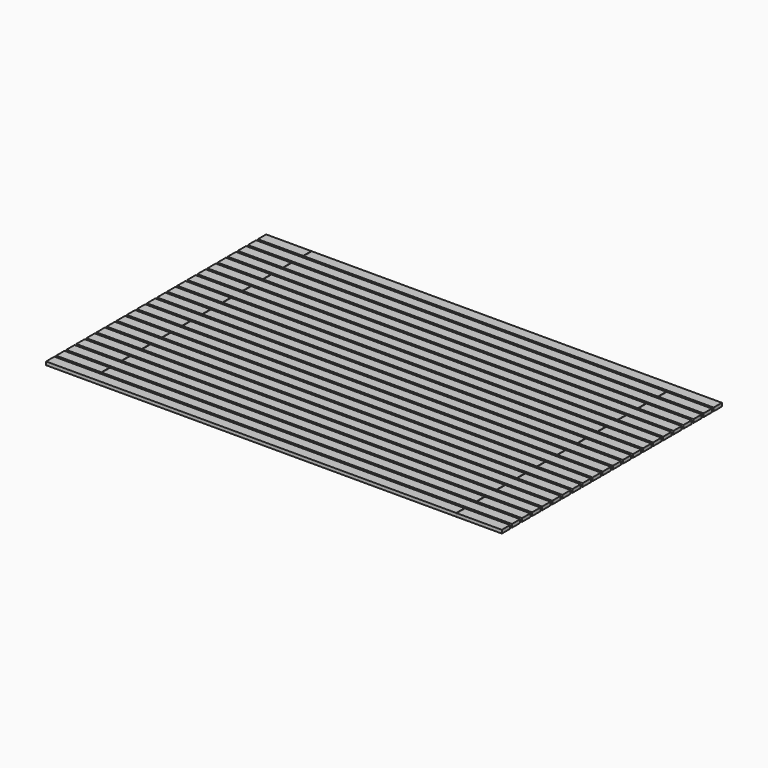
from build123d import *

# Parameters (mm, degrees)
F0_W     = 2700
F0_H     = 68
F0_W_2   = 2.5
F0_W_3   = 297.5
F1_DEPTH = 22
F2_DEPTH = 25


with BuildPart() as f1:
    # F0 (on Top) → F1 (new body)
    with BuildSketch(Plane.XY):
        with Locations((1350, 34)):
            Rectangle(F0_W, F0_H)
        with Locations((2701.25, 34)):
            Rectangle(F0_W_2, F0_H)
        with Locations((2851.25, 34)):
            Rectangle(F0_W_3, F0_H)
        with Locations((148.75, 117)):
            Rectangle(F0_W_3, F0_H)
        with Locations((298.75, 117)):
            Rectangle(F0_W_2, F0_H)
        with Locations((1650, 117)):
            Rectangle(F0_W, F0_H)
        with Locations((148.75, 283)):
            Rectangle(F0_W_3, F0_H)
        with Locations((298.75, 283)):
            Rectangle(F0_W_2, F0_H)
        with Locations((1650, 283)):
            Rectangle(F0_W, F0_H)
        with Locations((1350, 200)):
            Rectangle(F0_W, F0_H)
        with Locations((2701.25, 200)):
            Rectangle(F0_W_2, F0_H)
        with Locations((2851.25, 200)):
            Rectangle(F0_W_3, F0_H)
        with Locations((148.75, 449)):
            Rectangle(F0_W_3, F0_H)
        with Locations((298.75, 449)):
            Rectangle(F0_W_2, F0_H)
        with Locations((1650, 449)):
            Rectangle(F0_W, F0_H)
        with Locations((1350, 366)):
            Rectangle(F0_W, F0_H)
        with Locations((2701.25, 366)):
            Rectangle(F0_W_2, F0_H)
        with Locations((2851.25, 366)):
            Rectangle(F0_W_3, F0_H)
        with Locations((148.75, 615)):
            Rectangle(F0_W_3, F0_H)
        with Locations((298.75, 615)):
            Rectangle(F0_W_2, F0_H)
        with Locations((1650, 615)):
            Rectangle(F0_W, F0_H)
        with Locations((1350, 532)):
            Rectangle(F0_W, F0_H)
        with Locations((2701.25, 532)):
            Rectangle(F0_W_2, F0_H)
        with Locations((2851.25, 532)):
            Rectangle(F0_W_3, F0_H)
        with Locations((148.75, 781)):
            Rectangle(F0_W_3, F0_H)
        with Locations((298.75, 781)):
            Rectangle(F0_W_2, F0_H)
        with Locations((1650, 781)):
            Rectangle(F0_W, F0_H)
        with Locations((1350, 698)):
            Rectangle(F0_W, F0_H)
        with Locations((2701.25, 698)):
            Rectangle(F0_W_2, F0_H)
        with Locations((2851.25, 698)):
            Rectangle(F0_W_3, F0_H)
        with Locations((148.75, 947)):
            Rectangle(F0_W_3, F0_H)
        with Locations((298.75, 947)):
            Rectangle(F0_W_2, F0_H)
        with Locations((1650, 947)):
            Rectangle(F0_W, F0_H)
        with Locations((1350, 864)):
            Rectangle(F0_W, F0_H)
        with Locations((2701.25, 864)):
            Rectangle(F0_W_2, F0_H)
        with Locations((2851.25, 864)):
            Rectangle(F0_W_3, F0_H)
        with Locations((148.75, 1113)):
            Rectangle(F0_W_3, F0_H)
        with Locations((298.75, 1113)):
            Rectangle(F0_W_2, F0_H)
        with Locations((1650, 1113)):
            Rectangle(F0_W, F0_H)
        with Locations((1350, 1030)):
            Rectangle(F0_W, F0_H)
        with Locations((2701.25, 1030)):
            Rectangle(F0_W_2, F0_H)
        with Locations((2851.25, 1030)):
            Rectangle(F0_W_3, F0_H)
        with Locations((148.75, 1279)):
            Rectangle(F0_W_3, F0_H)
        with Locations((298.75, 1279)):
            Rectangle(F0_W_2, F0_H)
        with Locations((1650, 1279)):
            Rectangle(F0_W, F0_H)
        with Locations((1350, 1196)):
            Rectangle(F0_W, F0_H)
        with Locations((2701.25, 1196)):
            Rectangle(F0_W_2, F0_H)
        with Locations((2851.25, 1196)):
            Rectangle(F0_W_3, F0_H)
        with Locations((148.75, 1445)):
            Rectangle(F0_W_3, F0_H)
        with Locations((298.75, 1445)):
            Rectangle(F0_W_2, F0_H)
        with Locations((1650, 1445)):
            Rectangle(F0_W, F0_H)
        with Locations((1350, 1362)):
            Rectangle(F0_W, F0_H)
        with Locations((2701.25, 1362)):
            Rectangle(F0_W_2, F0_H)
        with Locations((2851.25, 1362)):
            Rectangle(F0_W_3, F0_H)
        with Locations((148.75, 1611)):
            Rectangle(F0_W_3, F0_H)
        with Locations((298.75, 1611)):
            Rectangle(F0_W_2, F0_H)
        with Locations((1650, 1611)):
            Rectangle(F0_W, F0_H)
        with Locations((1350, 1528)):
            Rectangle(F0_W, F0_H)
        with Locations((2701.25, 1528)):
            Rectangle(F0_W_2, F0_H)
        with Locations((2851.25, 1528)):
            Rectangle(F0_W_3, F0_H)
        with Locations((148.75, 1777)):
            Rectangle(F0_W_3, F0_H)
        with Locations((298.75, 1777)):
            Rectangle(F0_W_2, F0_H)
        with Locations((1650, 1777)):
            Rectangle(F0_W, F0_H)
        with Locations((1350, 1694)):
            Rectangle(F0_W, F0_H)
        with Locations((2701.25, 1694)):
            Rectangle(F0_W_2, F0_H)
        with Locations((2851.25, 1694)):
            Rectangle(F0_W_3, F0_H)
    extrude(amount=F1_DEPTH)

    # F0 (on Top) → F2 (cut)
    with BuildSketch(Plane.XY):
        with Locations((298.75, 117)):
            Rectangle(F0_W_2, F0_H)
        with Locations((298.75, 283)):
            Rectangle(F0_W_2, F0_H)
        with Locations((298.75, 449)):
            Rectangle(F0_W_2, F0_H)
        with Locations((298.75, 615)):
            Rectangle(F0_W_2, F0_H)
        with Locations((298.75, 781)):
            Rectangle(F0_W_2, F0_H)
        with Locations((298.75, 947)):
            Rectangle(F0_W_2, F0_H)
        with Locations((298.75, 1113)):
            Rectangle(F0_W_2, F0_H)
        with Locations((298.75, 1279)):
            Rectangle(F0_W_2, F0_H)
        with Locations((298.75, 1445)):
            Rectangle(F0_W_2, F0_H)
        with Locations((298.75, 1611)):
            Rectangle(F0_W_2, F0_H)
        with Locations((298.75, 1777)):
            Rectangle(F0_W_2, F0_H)
        with Locations((2701.25, 1694)):
            Rectangle(F0_W_2, F0_H)
        with Locations((2701.25, 1528)):
            Rectangle(F0_W_2, F0_H)
        with Locations((2701.25, 1362)):
            Rectangle(F0_W_2, F0_H)
        with Locations((2701.25, 1196)):
            Rectangle(F0_W_2, F0_H)
        with Locations((2701.25, 1030)):
            Rectangle(F0_W_2, F0_H)
        with Locations((2701.25, 864)):
            Rectangle(F0_W_2, F0_H)
        with Locations((2701.25, 698)):
            Rectangle(F0_W_2, F0_H)
        with Locations((2701.25, 532)):
            Rectangle(F0_W_2, F0_H)
        with Locations((2701.25, 366)):
            Rectangle(F0_W_2, F0_H)
        with Locations((2701.25, 200)):
            Rectangle(F0_W_2, F0_H)
        with Locations((2701.25, 34)):
            Rectangle(F0_W_2, F0_H)
    extrude(amount=F2_DEPTH, mode=Mode.SUBTRACT)


solid = f1.part
